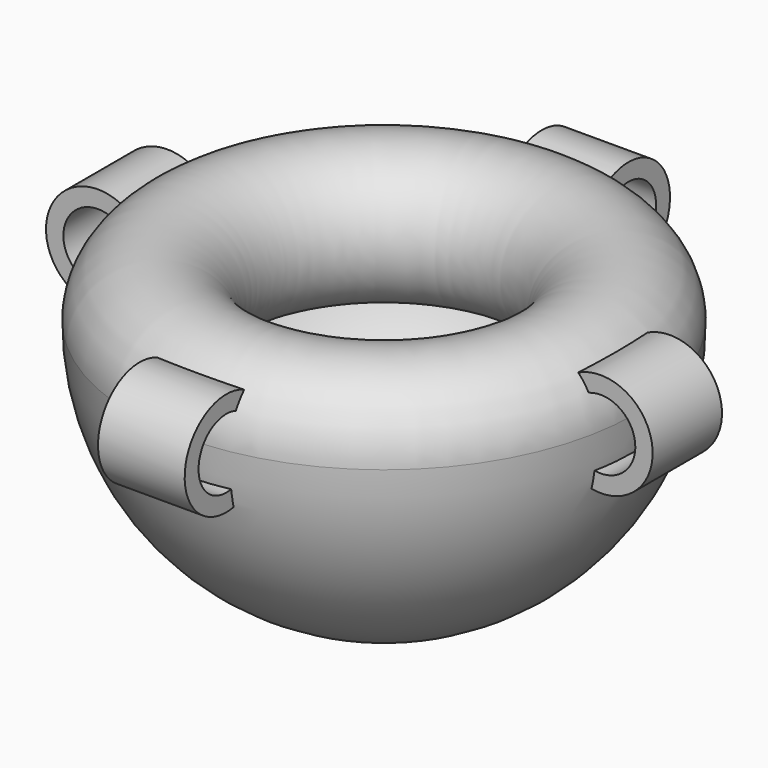
from build123d import *

# Parameters (mm, degrees)
F2_R     = 15
F2_R_2   = 10
F3_DEPTH = 12.5
F4_COUNT = 4
F4_ANGLE = 270


with BuildPart() as f1:
    # F0 (on Front) → F1 (revolve)
    with BuildSketch(Plane.XZ):
        with BuildLine():
            ThreePointArc((0, -72.5), (51.265241636, -51.265241636), (72.5, 0))
            ThreePointArc((72.5, 0), (36.024910579, 11.3389341903), (59.6428571429, -18.6809954723))
            ThreePointArc((59.6428571429, -18.6809954723), (37.0046468905, -50.3677089861), (0, -62.5))
            Line((0, -62.5), (0, -72.5))
        make_face()
    revolve(axis=Axis((0, 0, -0.3205458116), (0, 0, -1)))

    # F2 (on Front) → F3 (join, symmetric)
    with BuildSketch(Plane.XZ):
        with Locations((-72.5, 0)):
            Circle(F2_R)
        with Locations((-72.5, 0)):
            Circle(F2_R_2, mode=Mode.SUBTRACT)
    extrude(amount=F3_DEPTH, both=True)

    # F4: F1 ×4 about axis
    f4_axis = Axis((0, 0, -0.3205458116), (0, 0, 1))


with BuildPart() as f1_1:
    add(f1.part)
    for i in range(1, F4_COUNT):
        add(f1.part.rotate(f4_axis, i * F4_ANGLE / (F4_COUNT - 1)))


solid = f1_1.part
